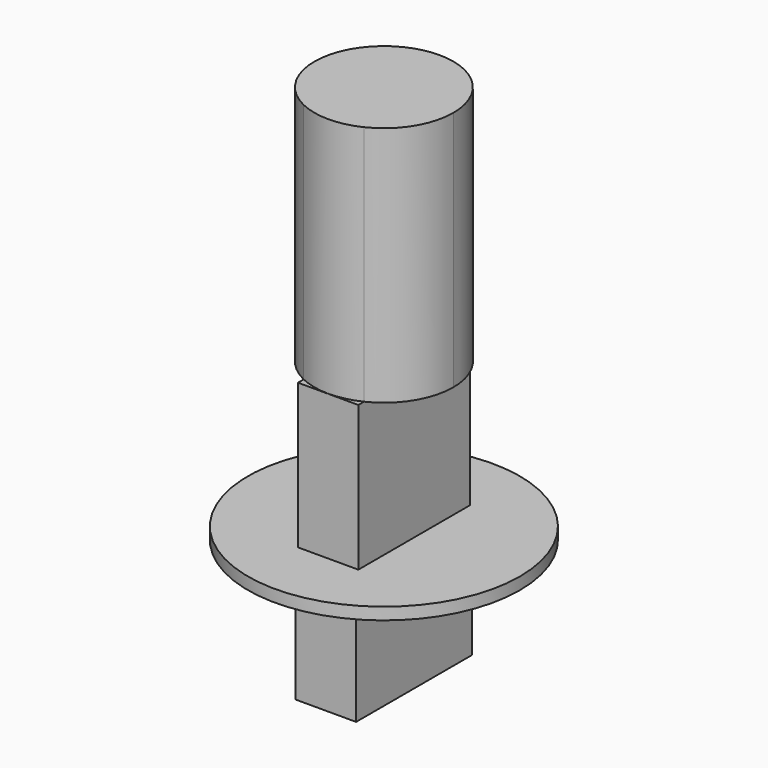
from build123d import *

# Parameters (mm, degrees)
F0_R     = 11.25
F1_DEPTH = 1
F2_W     = 5
F2_H     = 11.54
F3_DEPTH = 12
F4_W     = 5
F4_H     = 12
F5_DEPTH = 10
F7_DEPTH = 20


with BuildPart() as f1:
    # F0 (on Top) → F1 (new body)
    with BuildSketch(Plane.XY):
        Circle(F0_R)
    extrude(amount=F1_DEPTH)

    # F2 (on face) → F3 (join)
    with BuildSketch(Plane.XY.offset(1)):
        Rectangle(F2_W, F2_H)
    extrude(amount=F3_DEPTH)

    # F4 (on Top) → F5 (join)
    with BuildSketch(Plane.XY):
        Rectangle(F4_W, F4_H)
    extrude(amount=-F5_DEPTH)

    # F6 (on face) → F7 (join)
    with BuildSketch(Plane.XY.offset(13)):
        with BuildLine():
            Line((2.5, -5.178079), (2.5, 5.178079))
            ThreePointArc((2.5, 5.178079), (0, 5.75), (-2.5, 5.178079))
            Line((-2.5, 5.178079), (-2.5, -5.178079))
            ThreePointArc((-2.5, -5.178079), (0, -5.75), (2.5, -5.178079))
        make_face()
        with BuildLine():
            Line((-2.5, -5.178079), (-2.5, 5.178079))
            ThreePointArc((-2.5, 5.178079), (-5.75, 0), (-2.5, -5.178079))
        make_face()
        with BuildLine():
            ThreePointArc((2.5, -5.178079), (4.87019, -3.056755), (5.75, 0))
            ThreePointArc((5.75, 0), (4.87019, 3.056755), (2.5, 5.178079))
            Line((2.5, 5.178079), (2.5, -5.178079))
        make_face()
    extrude(amount=F7_DEPTH)


solid = f1.part
